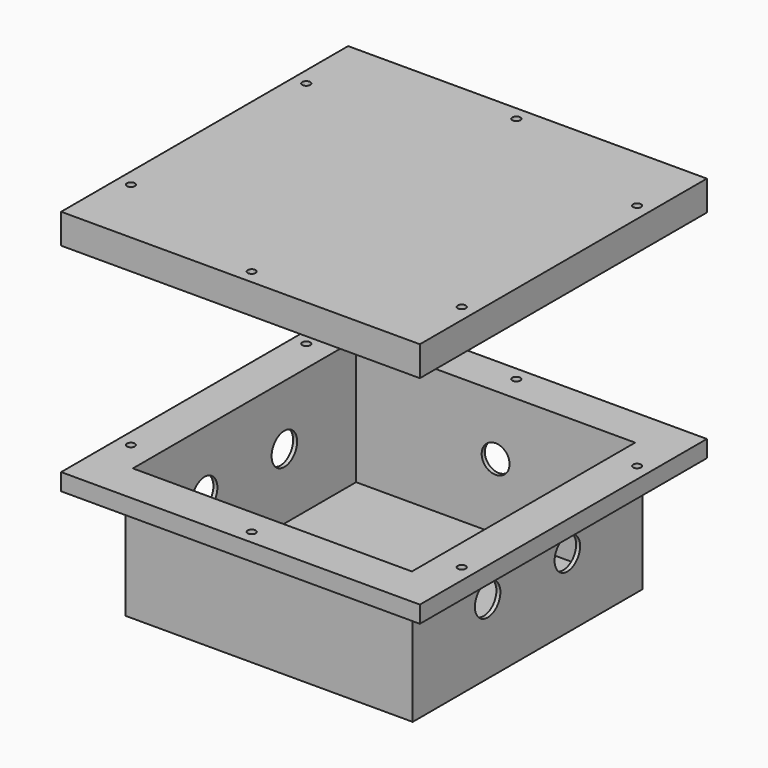
from build123d import *

# Parameters (mm, degrees)
F0_W           = 144
F0_H           = 144
F1_DEPTH       = 65
F2_T           = -2
F3_W           = 180
F3_H           = 180
F4_DEPTH       = 8.5
F5_W           = 140
F5_H           = 140
F6_DEPTH       = 10
F7_R           = 2
F8_DEPTH       = 8.5
F8_DEPTH_BACK  = 150
F9_R           = 2
F10_DEPTH      = 8.5
F10_DEPTH_BACK = 150
F12_W          = 180
F12_H          = 180
F13_DEPTH      = 15
F14_W          = 140
F14_H          = 140
F15_DEPTH      = 13
F16_R          = 2
F17_DEPTH      = 15
F18_R          = 8
F19_DEPTH      = 100
F19_DEPTH_BACK = 100
F20_R          = 7
F21_DEPTH      = 100


with BuildPart() as f1:
    # F0 (on Top) → F1 (new body)
    with BuildSketch(Plane.XY):
        Rectangle(F0_W, F0_H)
    extrude(amount=-F1_DEPTH)

    # F2
    f2_openings = [f1.faces().sort_by_distance(p)[0] for p in [
        (0, 0, 0),
    ]]
    offset(amount=F2_T, openings=f2_openings)

    # F3 (on Top) → F4 (join)
    with BuildSketch(Plane.XY):
        Rectangle(F3_W, F3_H)
    extrude(amount=-F4_DEPTH)

    # F5 (on Top) → F6 (cut)
    with BuildSketch(Plane.XY):
        Rectangle(F5_W, F5_H)
    extrude(amount=-F6_DEPTH, mode=Mode.SUBTRACT)

    # F7 (on Top) → F8 (cut, two sides)
    with BuildSketch(Plane.XY) as f8_sk:
        with Locations((-83, 55)):
            Circle(F7_R)
        with Locations((-83, -55)):
            Circle(F7_R)
        with Locations((83, 55)):
            Circle(F7_R)
        with Locations((83, -55)):
            Circle(F7_R)
    extrude(amount=-F8_DEPTH, mode=Mode.SUBTRACT)
    extrude(f8_sk.sketch, amount=F8_DEPTH_BACK, mode=Mode.SUBTRACT)

    # F9 (on Top) → F10 (cut, two sides)
    with BuildSketch(Plane.XY) as f10_sk:
        with Locations((0, 83)):
            Circle(F9_R)
        with Locations((0, -83)):
            Circle(F9_R)
    extrude(amount=-F10_DEPTH, mode=Mode.SUBTRACT)
    extrude(f10_sk.sketch, amount=F10_DEPTH_BACK, mode=Mode.SUBTRACT)

    # F18 (on Right) → F19 (cut, two sides)
    with BuildSketch(Plane.YZ) as f19_sk:
        with Locations((-25, -30)):
            Circle(F18_R)
        with Locations((25, -30)):
            Circle(F18_R)
    extrude(amount=-F19_DEPTH, mode=Mode.SUBTRACT)
    extrude(f19_sk.sketch, amount=F19_DEPTH_BACK, mode=Mode.SUBTRACT)

    # F20 (on Front) → F21 (cut)
    with BuildSketch(Plane.XZ):
        with Locations((0, -30)):
            Circle(F20_R)
    extrude(amount=-F21_DEPTH, mode=Mode.SUBTRACT)


with BuildPart() as f13:
    # F12 (on offset) → F13 (new body)
    with BuildSketch(Plane.XY.offset(100)):
        Rectangle(F12_W, F12_H)
    extrude(amount=F13_DEPTH)

    # F14 (on offset) → F15 (cut)
    with BuildSketch(Plane.XY.offset(100)):
        Rectangle(F14_W, F14_H)
    extrude(amount=F15_DEPTH, mode=Mode.SUBTRACT)

    # F16 (on offset) → F17 (cut, through all)
    with BuildSketch(Plane.XY.offset(100)):
        with Locations((-83, 55)):
            Circle(F16_R)
        with Locations((-83, -55)):
            Circle(F16_R)
        with Locations((0, -83)):
            Circle(F16_R)
        with Locations((83, -55)):
            Circle(F16_R)
        with Locations((0, 83)):
            Circle(F16_R)
        with Locations((83, 55)):
            Circle(F16_R)
    extrude(amount=F17_DEPTH, mode=Mode.SUBTRACT)


solid = Compound([f1.part, f13.part])
